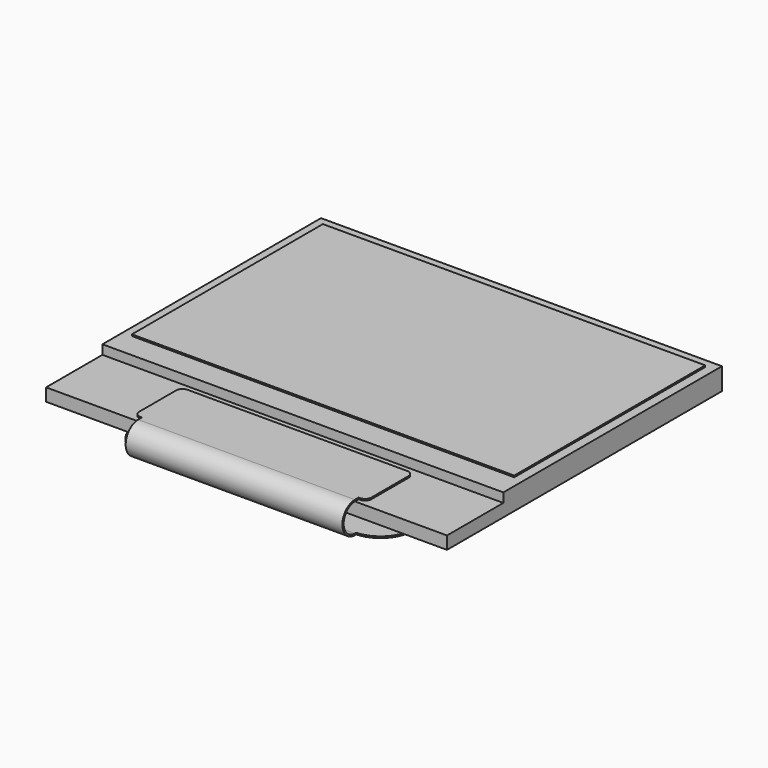
from build123d import *

# Parameters (mm, degrees)
SKETCH_W     = 25.9
SKETCH_H     = 22.2
PAD_DEPTH    = 0.82
SKETCH001_W  = 25.9
SKETCH001_H  = 17.65
PAD001_DEPTH = 0.6
SKETCH002_W  = 24.7
SKETCH002_H  = 15.42
PAD002_DEPTH = 0.1
PAD003_DEPTH = 0.1
PAD004_DEPTH = 7
PAD005_DEPTH = 0.1


with BuildPart() as part:
    # Sketch → Pad (new body)
    with BuildSketch(Plane.XY):
        Rectangle(SKETCH_W, SKETCH_H)
    extrude(amount=PAD_DEPTH)

    # Sketch001 (on Face6 of Pad) → Pad001 (join)
    with BuildSketch(Plane.XY.offset(0.82)):
        with Locations((0, 2.275)):
            Rectangle(SKETCH001_W, SKETCH001_H)
    extrude(amount=PAD001_DEPTH)

    # Sketch002 (on Face10 of Pad001) → Pad002 (join)
    with BuildSketch(Plane.XY.offset(1.42)):
        with Locations((0, 2.79)):
            Rectangle(SKETCH002_W, SKETCH002_H)
    extrude(amount=PAD002_DEPTH)

    # Sketch003 (on Face7 of Pad002) → Pad003 (join)
    with BuildSketch(Plane.XY.offset(0.82)):
        with BuildLine():
            Line((-7.1, -7), (7.1, -7))
            ThreePointArc((7.5, -7.4), (7.382843, -7.117157), (7.1, -7))
            Line((7.5, -7.4), (7.5, -10.4))
            ThreePointArc((7.1, -10.8), (7.382843, -10.682843), (7.5, -10.4))
            Line((7.1, -10.8), (7, -10.8))
            Line((7, -10.8), (7, -11.1))
            Line((7, -11.1), (-7, -11.1))
            Line((-7, -11.1), (-7, -10.8))
            Line((-7, -10.8), (-7.1, -10.8))
            ThreePointArc((-7.5, -10.4), (-7.382843, -10.682843), (-7.1, -10.8))
            Line((-7.5, -10.4), (-7.5, -7.4))
            ThreePointArc((-7.1, -7), (-7.382843, -7.117157), (-7.5, -7.4))
        make_face()
    extrude(amount=PAD003_DEPTH)

    # Sketch004 → Pad004 (join, symmetric)
    with BuildSketch(Plane.YZ):
        with BuildLine():
            ThreePointArc((-11.1, 0.82), (-12.01, -0.09), (-11.1, -1))
            Line((-11.1, -1), (-4.18, -1))
            Line((-4.18, -1), (-4.18, -1.1))
            Line((-11.1, -1.1), (-4.18, -1.1))
            ThreePointArc((-11.1, 0.92), (-12.11, -0.09), (-11.1, -1.1))
            Line((-11.1, 0.82), (-11.1, 0.92))
        make_face()
    extrude(amount=PAD004_DEPTH, both=True)

    # Sketch005 (on Face34 of Pad004) → Pad005 (join)
    with BuildSketch(Plane(origin=(0, 0, -1.1), x_dir=(1, 0, 0), z_dir=(0, 0, -1))):
        with BuildLine():
            Line((-9, 4.2), (9, 4.2))
            Line((9, 4.2), (9, 8.9))
            ThreePointArc((9, 8.9), (8.42, 10.35), (7, 11))
            Line((7, 11), (-7, 11))
            ThreePointArc((-7, 11), (-8.42, 10.35), (-9, 8.9))
            Line((-9, 8.9), (-9, 4.2))
        make_face()
    extrude(amount=-PAD005_DEPTH)


solid = part.part
